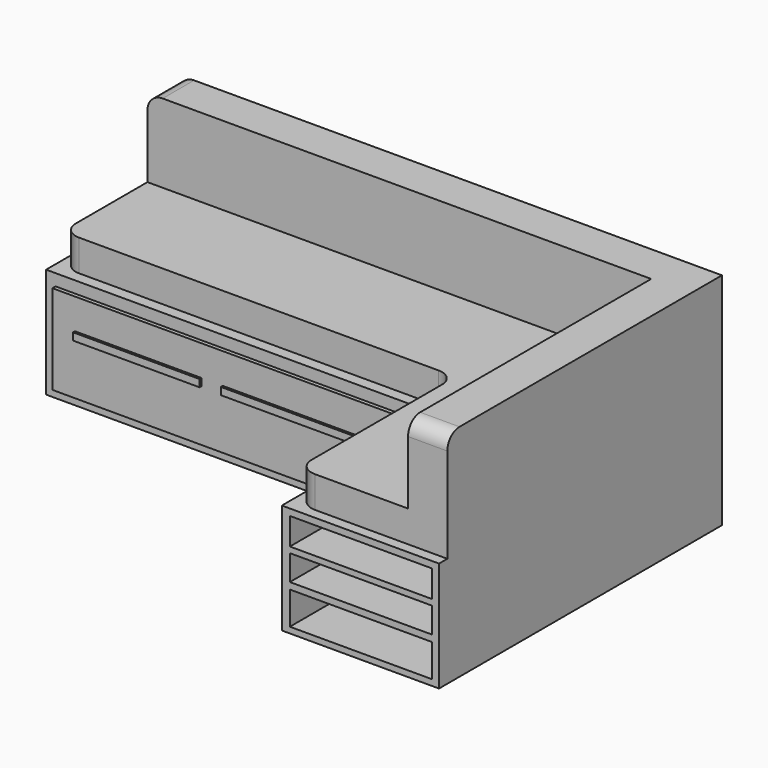
from build123d import *

# Parameters (mm, degrees)
F1_DEPTH  = 426.72
F3_DEPTH  = 121.92
F5_DEPTH  = 304.8
F6_R      = 66.226706
F7_R      = 58.868184
F8_W      = 1436.773274
F8_H      = 347.196668
F9_DEPTH  = 15.24
F10_W     = 491.156265
F10_H     = 28.227374
F10_W_2   = 533.497333
F11_DEPTH = 9.144
F12_W     = 550.433874
F12_H     = 378.246805
F13_DEPTH = 381
F14_W     = 550.433874
F14_H     = 22.581905
F14_H_2   = 25.404632
F15_DEPTH = 381


with BuildPart() as f1:
    # F0 (on Top) → F1 (new body)
    with BuildSketch(Plane.XY):
        Polygon((2133.6, 0), (0, 0), (0, -609.6), (1524, -609.6), (1524, -1371.6), (2133.6, -1371.6), align=None)
    extrude(amount=F1_DEPTH)

    # F2 (on face) → F3 (join)
    with BuildSketch(Plane.XY.offset(426.72)):
        Polygon((2133.6, 0), (27.330885, 0), (27.330885, -566.014111), (1553.559542, -566.014111), (1553.559542, -1331.258059), (2133.6, -1331.258059), align=None)
    extrude(amount=F3_DEPTH)

    # F4 (on face) → F5 (join)
    with BuildSketch(Plane.XY.offset(548.64)):
        Polygon((2133.6, 0), (27.330885, 0), (27.330885, -152.4), (1981.2, -152.4), (1981.2, -1331.258059), (2133.6, -1331.258059), align=None)
    extrude(amount=F5_DEPTH)

    # F6
    f6_edges = [f1.edges().sort_by_distance(p)[0] for p in [
        (27.330885, -566.014111, 487.68),
        (1553.559542, -566.014111, 487.68),
        (1553.559542, -1331.258059, 487.68),
    ]]
    fillet(f6_edges, radius=F6_R)

    # F7
    f7_edges = [f1.edges().sort_by_distance(p)[0] for p in [
        (27.330885, -76.2, 853.44),
        (2057.4, -1331.258059, 853.44),
    ]]
    fillet(f7_edges, radius=F7_R)

    # F8 (on face) → F9 (join)
    with BuildSketch(Plane.XZ.offset(609.6)):
        with Locations((754.894508, 207.948759)):
            Rectangle(F8_W, F8_H)
    extrude(amount=F9_DEPTH)

    # F10 (on face) → F11 (join)
    with BuildSketch(Plane.XZ.offset(624.84)):
        with Locations((369.590856, 248.878457)):
            Rectangle(F10_W, F10_H)
        with Locations((963.777065, 248.878457)):
            Rectangle(F10_W_2, F10_H)
    extrude(amount=F11_DEPTH)

    # F12 (on face) → F13 (cut)
    with BuildSketch(Plane.XZ.offset(1371.6)):
        with Locations((1830.357432, 212.182869)):
            Rectangle(F12_W, F12_H)
    extrude(amount=-F13_DEPTH, mode=Mode.SUBTRACT)

    # F14 (on face) → F15 (join)
    with BuildSketch(Plane.XZ.offset(990.6)):
        with Locations((1830.357432, 285.574033)):
            Rectangle(F14_W, F14_H)
        with Locations((1830.357432, 162.784964)):
            Rectangle(F14_W, F14_H_2)
    extrude(amount=F15_DEPTH)


solid = f1.part
